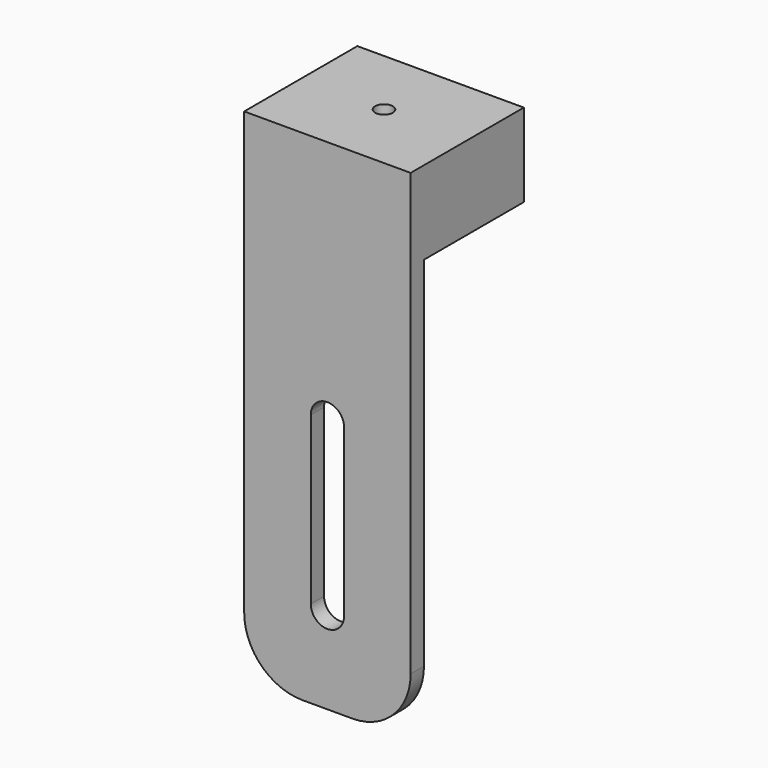
from build123d import *

# Parameters (mm, degrees)
F0_W     = 25.4
F0_H     = 76.2
F1_DEPTH = 2.54
F2_W     = 25.4
F2_H     = 12.7
F3_DEPTH = 19.05
F5_D     = 2.7051
F7_DEPTH = 21.591
F8_R     = 8.89


with BuildPart() as f1:
    # F0 (on Front) → F1 (new body)
    with BuildSketch(Plane.XZ):
        with Locations((12.7, 38.1)):
            Rectangle(F0_W, F0_H)
    extrude(amount=F1_DEPTH)

    # F2 (on face) → F3 (join)
    with BuildSketch(Plane(origin=(0, 0, 0), x_dir=(-1, 0, 0), z_dir=(0, 1, 0))):
        with Locations((-12.7, 69.85)):
            Rectangle(F2_W, F2_H)
    extrude(amount=F3_DEPTH)

    # F5 (through all)
    with Locations(Plane(origin=(0, 0, 63.5), x_dir=(1, 0, 0), z_dir=(0, 0, -1))):
        with Locations((12.7, -8.255)):
            Hole(F5_D / 2)

    # F6 (on face) → F7 (cut, through all)
    with BuildSketch(Plane.XZ.offset(2.54)):
        with BuildLine():
            ThreePointArc((15.24, 38.735), (12.7, 41.275), (10.16, 38.735))
            Line((10.16, 38.735), (10.16, 13.335))
            ThreePointArc((10.16, 13.335), (12.7, 10.795), (15.24, 13.335))
            Line((15.24, 13.335), (15.24, 38.735))
        make_face()
    extrude(amount=-F7_DEPTH, mode=Mode.SUBTRACT)

    # F8
    f8_edges = [f1.edges().sort_by_distance(p)[0] for p in [
        (0, -1.27, 0),
        (25.4, -1.27, 0),
    ]]
    fillet(f8_edges, radius=F8_R)


solid = f1.part
